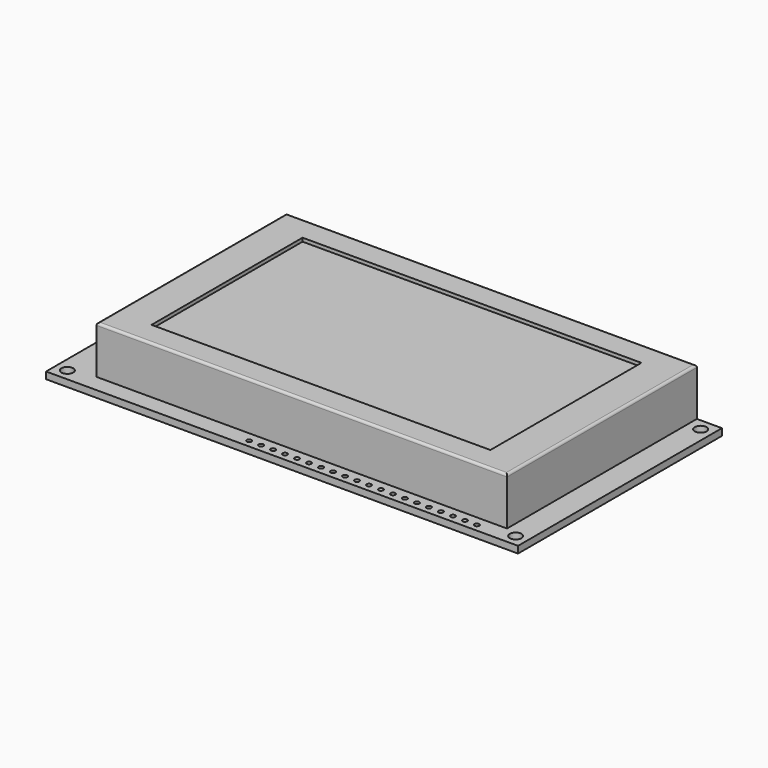
from build123d import *

# Parameters (mm, degrees)
F0_W      = 100
F0_H      = 54
F1_DEPTH  = 1.45
F2_W      = 87
F2_H      = 50.3
F3_DEPTH  = 10.1
F4_R      = 1.25
F5_DEPTH  = 1.451
F7_R      = 0.5
F6_W      = 71.8
F6_H      = 40
F8_DEPTH  = 0.75
F9_R      = 0.5
F10_DEPTH = 1.451


with BuildPart() as f1:
    # F0 (on Top) → F1 (new body)
    with BuildSketch(Plane.XY):
        with Locations((50, 27)):
            Rectangle(F0_W, F0_H)
    extrude(amount=F1_DEPTH)

    # F2 (on face) → F3 (join)
    with BuildSketch(Plane.XY.offset(1.45)):
        with Locations((51.2, 28.85)):
            Rectangle(F2_W, F2_H)
    extrude(amount=F3_DEPTH)

    # F4 (on face) → F5 (cut, through all)
    with BuildSketch(Plane.XY.offset(1.45)):
        with Locations((2.5, 51.5)):
            Circle(F4_R)
        with Locations((2.5, 2.5)):
            Circle(F4_R)
        with Locations((97.5, 2.5)):
            Circle(F4_R)
        with Locations((97.5, 51.5)):
            Circle(F4_R)
    extrude(amount=-F5_DEPTH, mode=Mode.SUBTRACT)

    # F7
    f7_edges = [f1.edges().sort_by_distance(p)[0] for p in [
        (7.7, 28.85, 11.55),
        (51.2, 54, 11.55),
        (51.2, 3.7, 11.55),
        (94.7, 28.85, 11.55),
    ]]
    fillet(f7_edges, radius=F7_R)

    # F6 (on face) → F8 (cut)
    with BuildSketch(Plane.XY.offset(11.55)):
        with Locations((51.2, 28.8)):
            Rectangle(F6_W, F6_H)
    extrude(amount=-F8_DEPTH, mode=Mode.SUBTRACT)

    # F9 (on face) → F10 (cut, through all)
    with BuildSketch(Plane.XY.offset(1.45)):
        with Locations((90, 1.6)):
            Circle(F9_R)
        with Locations((87.46, 1.6)):
            Circle(F9_R)
        with Locations((84.92, 1.6)):
            Circle(F9_R)
        with Locations((82.38, 1.6)):
            Circle(F9_R)
        with Locations((79.84, 1.6)):
            Circle(F9_R)
        with Locations((77.3, 1.6)):
            Circle(F9_R)
        with Locations((74.76, 1.6)):
            Circle(F9_R)
        with Locations((72.22, 1.6)):
            Circle(F9_R)
        with Locations((69.68, 1.6)):
            Circle(F9_R)
        with Locations((67.14, 1.6)):
            Circle(F9_R)
        with Locations((64.6, 1.6)):
            Circle(F9_R)
        with Locations((62.06, 1.6)):
            Circle(F9_R)
        with Locations((59.52, 1.6)):
            Circle(F9_R)
        with Locations((56.98, 1.6)):
            Circle(F9_R)
        with Locations((54.44, 1.6)):
            Circle(F9_R)
        with Locations((51.9, 1.6)):
            Circle(F9_R)
        with Locations((49.36, 1.6)):
            Circle(F9_R)
        with Locations((46.82, 1.6)):
            Circle(F9_R)
        with Locations((44.28, 1.6)):
            Circle(F9_R)
        with Locations((41.74, 1.6)):
            Circle(F9_R)
    extrude(amount=-F10_DEPTH, mode=Mode.SUBTRACT)


solid = f1.part
